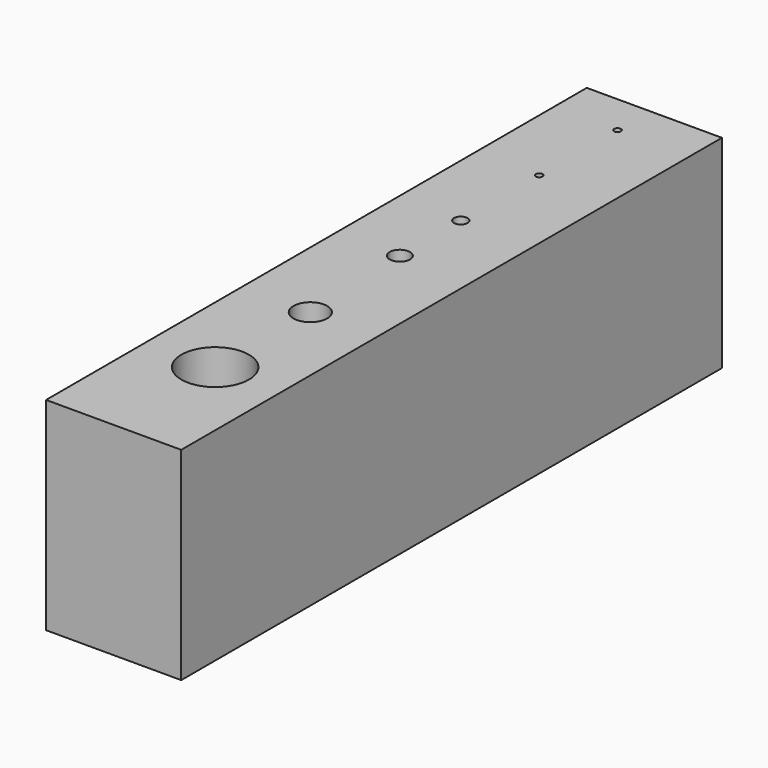
from build123d import *

# Parameters (mm, degrees)
F0_W     = 2
F0_H     = 10
F0_R     = 0.5
F0_R_2   = 0.25
F0_R_3   = 0.15
F0_R_4   = 0.1
F0_R_5   = 0.05
F1_DEPTH = 3


with BuildPart() as f1:
    # F0 (on Top) → F1 (new body)
    with BuildSketch(Plane.XY):
        with Locations((-1, 5)):
            Rectangle(F0_W, F0_H)
        with Locations((-0.986764, 1.860957)):
            Circle(F0_R, mode=Mode.SUBTRACT)
        with Locations((-0.986764, 3.621375)):
            Circle(F0_R_2, mode=Mode.SUBTRACT)
        with Locations((-1.061903, 5.371059)):
            Circle(F0_R_3, mode=Mode.SUBTRACT)
        with Locations((-1.061903, 6.498156)):
            Circle(F0_R_4, mode=Mode.SUBTRACT)
        with Locations((-1.061903, 7.947281)):
            Circle(F0_R_5, mode=Mode.SUBTRACT)
        with Locations((-1.061903, 9.396405)):
            Circle(F0_R_5, mode=Mode.SUBTRACT)
    extrude(amount=F1_DEPTH)


solid = f1.part
